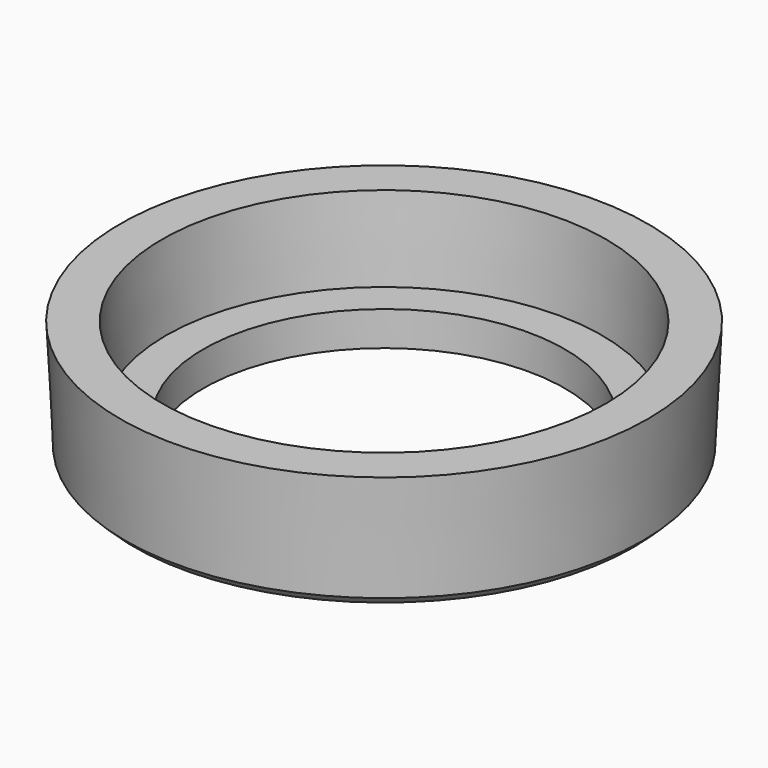
from build123d import *

# Parameters (mm, degrees)
F2_SIZE = 0.3


with BuildPart() as f1:
    # F0 (on Front) → F1 (revolve)
    with BuildSketch(Plane.XZ):
        Polygon((6.3, 1.2), (6.3, 0), (9, 0), (9.2, 4.1), (7.741463, 4.1), (7.6, 1.2), align=None)
    revolve(axis=Axis((0, 0, 3.37447), (0, 0, -1)))

    # F2
    f2_edges = [f1.edges().sort_by_distance(p)[0] for p in [
        (-9, 0, 0),
    ]]
    chamfer(f2_edges, length=F2_SIZE)


solid = f1.part
